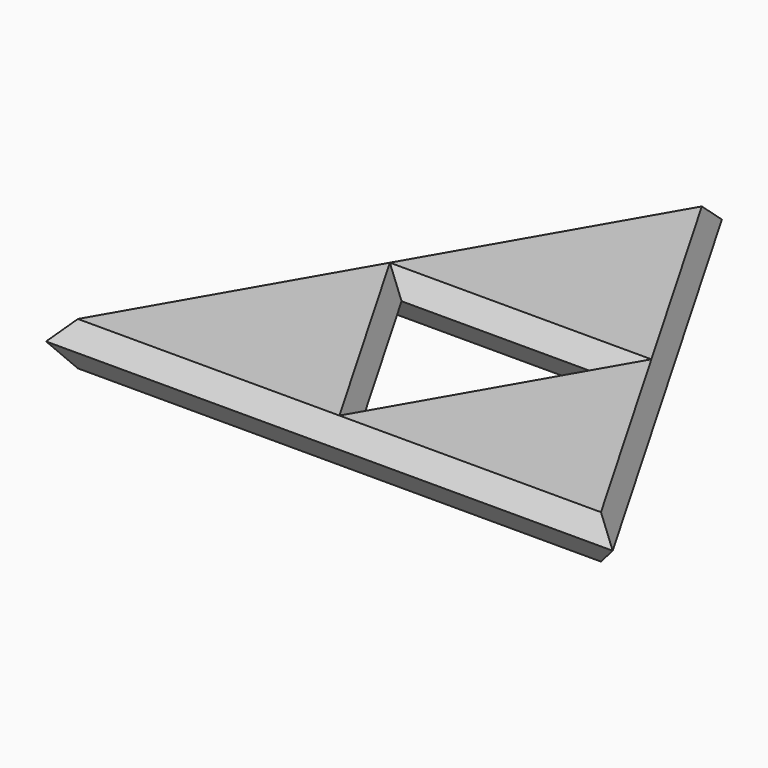
from build123d import *

# Parameters (mm, degrees)
F1_DEPTH = 3
F1_TAPER = -30


with BuildPart() as f1:
    # F0 (on Top) → F1 (new body)
    with BuildSketch(Plane.XY):
        Polygon((36.0686861882, -19.9420294206), (18.0343430941, 11.2943690995), (0, -19.9420294206), align=None)
        Polygon((0, -19.9420294206), (-18.0343430941, 11.2943690995), (-36.0686861882, -19.9420294206), align=None)
        Polygon((18.0343430941, 11.2943690995), (0, 42.5307676196), (-18.0343430941, 11.2943690995), align=None)
    extrude(amount=-F1_DEPTH, taper=F1_TAPER)

    # F2: union 

    # F3: F1 across face


with BuildPart() as f1_1:
    add(f1.part)
    add(f1.part.mirror(Plane(origin=(0, 0.8822362595, -3), x_dir=(1, 0, 0), z_dir=(0, 0, -1))))


solid = f1_1.part
